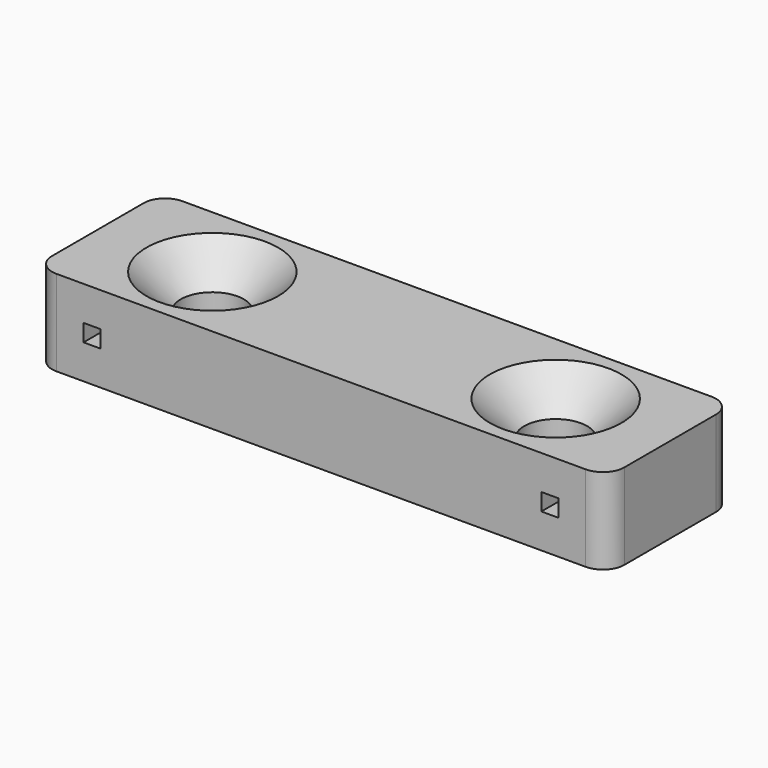
from build123d import *

# Parameters (mm, degrees)
SKETCH_W        = 10
SKETCH_H        = 5.5
PAD_DEPTH       = 3
SKETCH001_R     = 1.1
POCKET_DEPTH    = 3.001
SKETCH002_W     = 0.6
SKETCH002_H     = 0.6
POCKET001_DEPTH = 5.501
FILLET_R        = 0.75
CHAMFER_SIZE    = 1.2


with BuildPart() as part:
    # Sketch → Pad (new body)
    with BuildSketch(Plane.XY):
        with Locations((-5, 0)):
            Rectangle(SKETCH_W, SKETCH_H)
    extrude(amount=PAD_DEPTH)

    # Sketch001 (on Face6 of Pad) → Pocket (cut, through all)
    with BuildSketch(Plane.XY.offset(3)):
        with Locations((-6, 0)):
            Circle(SKETCH001_R)
    extrude(amount=-POCKET_DEPTH, mode=Mode.SUBTRACT)

    # Sketch002 (on Face1 of Pocket) → Pocket001 (cut, through all)
    with BuildSketch(Plane.XZ.offset(2.75)):
        with Locations((-8, 1.5)):
            Rectangle(SKETCH002_W, SKETCH002_H)
    extrude(amount=-POCKET001_DEPTH, mode=Mode.SUBTRACT)

    # Fillet
    fillet_edges = [part.edges().sort_by_distance(p)[0] for p in [
        (-10, -2.75, 1.5),
        (-10, 2.75, 1.5),
    ]]
    fillet(fillet_edges, radius=FILLET_R)

    # Mirrored: part across YZ


with BuildPart() as part_1:
    add(part.part)
    add(part.part.mirror(Plane.YZ))

    # Chamfer
    chamfer_edges = [part_1.edges().sort_by_distance(p)[0] for p in [
        (-7.1, 0, 3),
        (7.1, 0, 3),
    ]]
    chamfer(chamfer_edges, length=CHAMFER_SIZE)


solid = part_1.part
